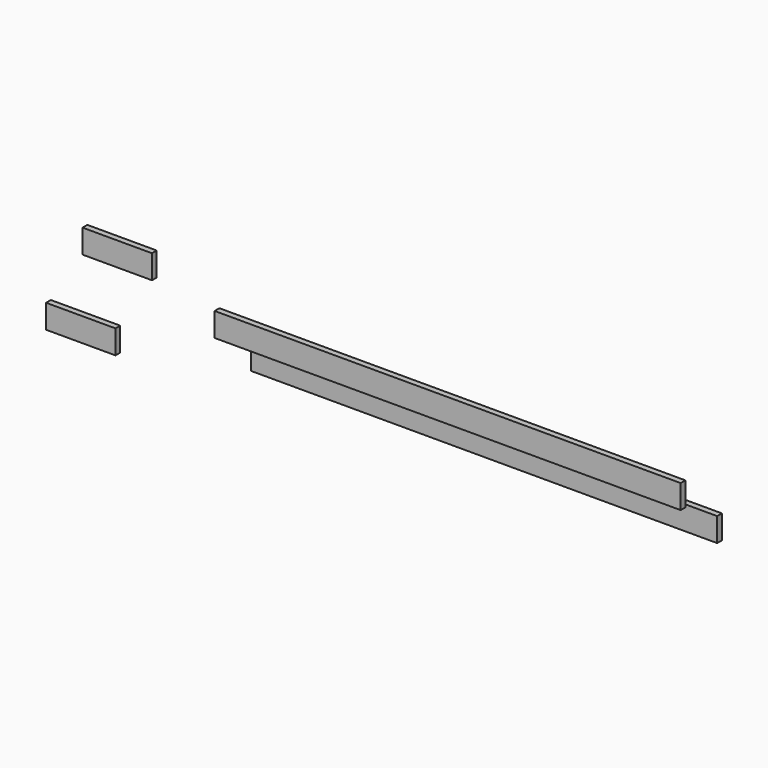
from build123d import *

# Parameters (mm, degrees)
SKETCH023_W     = 1.5
SKETCH023_H     = 6
PAD010_DEPTH    = 130
SKETCH024_W     = 1.5
SKETCH024_H     = 6
PAD011_DEPTH    = 30
SKETCH025_W     = 35.455807
SKETCH025_H     = 33.450874
POCKET017_DEPTH = 12.5


with BuildPart() as part:
    # Sketch023 → Pad010 (new body)
    with BuildSketch(Plane.YZ):
        with Locations((-5.75, -3.5)):
            Rectangle(SKETCH023_W, SKETCH023_H)
        with Locations((5.75, -15.5)):
            Rectangle(SKETCH023_W, SKETCH023_H)
    extrude(amount=PAD010_DEPTH)

    # Sketch024 (on Sketch) → Pad011 (join)
    with BuildSketch(Plane.YZ):
        with Locations((5.75, -3.5)):
            Rectangle(SKETCH024_W, SKETCH024_H)
        with Locations((-5.75, -15.5)):
            Rectangle(SKETCH024_W, SKETCH024_H)
    extrude(amount=-PAD011_DEPTH)

    # Sketch025 → Pocket017 (cut, symmetric)
    with BuildSketch(Plane.YZ):
        with Locations((3.122594, -7.993252)):
            Rectangle(SKETCH025_W, SKETCH025_H)
    extrude(amount=POCKET017_DEPTH, both=True, mode=Mode.SUBTRACT)


solid = part.part
